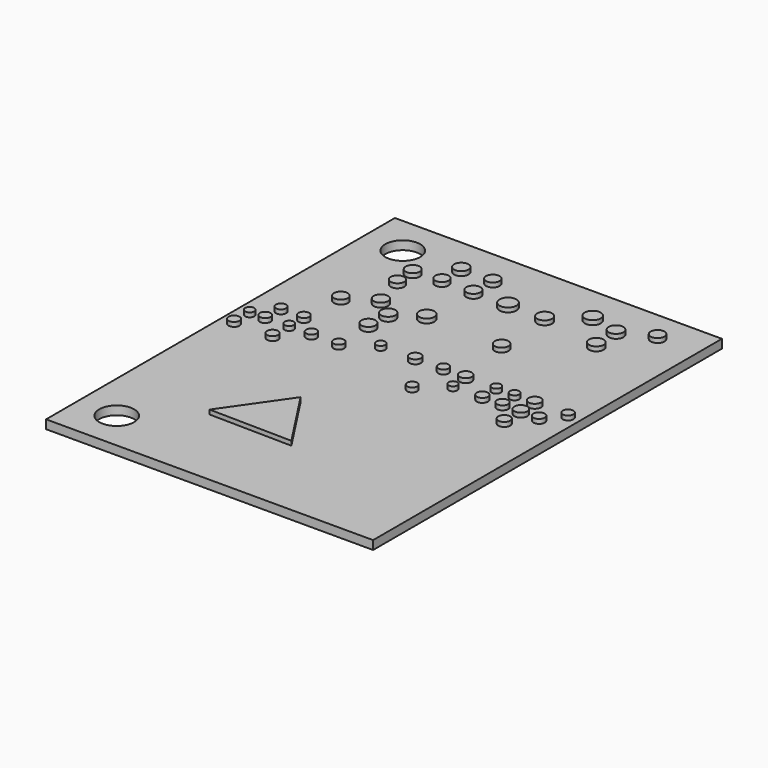
from build123d import *

# Parameters (mm, degrees)
F0_W     = 75
F0_H     = 100
F0_R     = 4
F1_DEPTH = 2
F2_R     = 1.260433
F2_R_2   = 1.058151
F2_R_3   = 1.234001
F2_R_4   = 1.260431
F2_R_5   = 1.168761
F2_R_6   = 1.058147
F2_R_7   = 1.206474
F2_R_8   = 1.206473
F2_R_9   = 1.048105
F2_R_10  = 1.602145
F2_R_11  = 1.576303
F2_R_12  = 1.633875
F2_R_13  = 1.745267
F2_R_14  = 1.633874
F2_R_15  = 1.311723
F2_R_16  = 1.379654
F2_R_17  = 1.160314
F2_R_18  = 1.003846
F2_R_19  = 1.058148
F2_R_20  = 1.411745
F2_R_21  = 1.197159
F2_R_22  = 1.287292
F2_R_23  = 1.496447
F2_R_24  = 1.278564
F2_R_25  = 1.369609
F2_R_26  = 1.5763
F2_R_27  = 1.704707
F2_R_28  = 1.943144
F2_R_29  = 1.612455
F2_R_30  = 1.54121
F2_R_31  = 1.65179
F2_R_32  = 1.548665
F2_R_33  = 1.834964
F2_R_34  = 1.677287
F2_R_35  = 1.671155
F2_R_36  = 1.576301
F2_R_37  = 1.541208
F2_R_38  = 1.612456
F3_DEPTH = 1


with BuildPart() as f1:
    # F0 (on Top) → F1 (new body)
    with BuildSketch(Plane.XY):
        Rectangle(F0_W, F0_H)
        with Locations((-28.5, -41)):
            Circle(F0_R, mode=Mode.SUBTRACT)
        with Locations((-28.5, 41)):
            Circle(F0_R, mode=Mode.SUBTRACT)
    extrude(amount=F1_DEPTH)

    # F2 (on face) → F3 (join)
    with BuildSketch(Plane.XY.offset(2)):
        Polygon((-6.076929, -16.311754), (-15.800014, -30.256704), (3.197582, -30.558981), align=None)
        with Locations((-34.382914, 0)):
            Circle(F2_R)
        with Locations((-34.382914, 4.476072)):
            Circle(F2_R_2)
        with Locations((-30.941086, 4.625717)):
            Circle(F2_R_3)
        with Locations((-25.553879, 0)):
            Circle(F2_R_4)
        with Locations((-30.791441, 8.965411)):
            Circle(F2_R_5)
        with Locations((-25.553879, 8.965411)):
            Circle(F2_R_3)
        with Locations((-25.553879, 4.775362)):
            Circle(F2_R_6)
        with Locations((-20.465961, 4.775362)):
            Circle(F2_R_7)
        with Locations((-14.180887, 4.775362)):
            Circle(F2_R_8)
        with Locations((-7.931036, 8.965411)):
            Circle(F2_R_9)
        with Locations((-14.587611, 13.790584)):
            Circle(F2_R_10)
        with Locations((-25.048525, 18.94939)):
            Circle(F2_R_11)
        with Locations((-18.743318, 22.531896)):
            Circle(F2_R_12)
        with Locations((-8.569005, 22.961797)):
            Circle(F2_R_13)
        with Locations((-14.301012, 19.092691)):
            Circle(F2_R_14)
        with Locations((0, 8.965411)):
            Circle(F2_R_15)
        with Locations((6.47007, 8.965411)):
            Circle(F2_R_8)
        with Locations((11.557988, 8.965411)):
            Circle(F2_R_16)
        with Locations((6.47007, 0)):
            Circle(F2_R_17)
        with Locations((12.006922, 4.775362)):
            Circle(F2_R_18)
        with Locations((18.591282, 8.965411)):
            Circle(F2_R_19)
        with Locations((22.781334, 8.965411)):
            Circle(F2_R_19)
        with Locations((27.420317, 8.965411)):
            Circle(F2_R_20)
        with Locations((35.052193, 8.965411)):
            Circle(F2_R_21)
        with Locations((31.760013, 4.775362)):
            Circle(F2_R_22)
        with Locations((27.569961, 4.775362)):
            Circle(F2_R_23)
        with Locations((18.740929, 4.775362)):
            Circle(F2_R_24)
        with Locations((23.37991, 4.775362)):
            Circle(F2_R_24)
        with Locations((27.569961, 0)):
            Circle(F2_R_25)
        with Locations((9.056919, 22.388596)):
            Circle(F2_R_26)
        with Locations((8.395417, 35.550098)):
            Circle(F2_R_27)
        with Locations((0, 35.550098)):
            Circle(F2_R_28)
        with Locations((-7.931036, 35.550098)):
            Circle(F2_R_29)
        with Locations((-15.15448, 35.550098)):
            Circle(F2_R_30)
        with Locations((-15.15448, 41.104114)):
            Circle(F2_R_31)
        with Locations((-7.931036, 41.104114)):
            Circle(F2_R_32)
        with Locations((14.987228, 41.104114)):
            Circle(F2_R_33)
        with Locations((21.667335, 39.441315)):
            Circle(F2_R_34)
        with Locations((21.953932, 33.422709)):
            Circle(F2_R_35)
        with Locations((28.545743, 42.737222)):
            Circle(F2_R_36)
        with Locations((-21.066819, 30.175249)):
            Circle(F2_R_37)
        with Locations((-21.425142, 35.012618)):
            Circle(F2_R_38)
    extrude(amount=F3_DEPTH)


solid = f1.part
